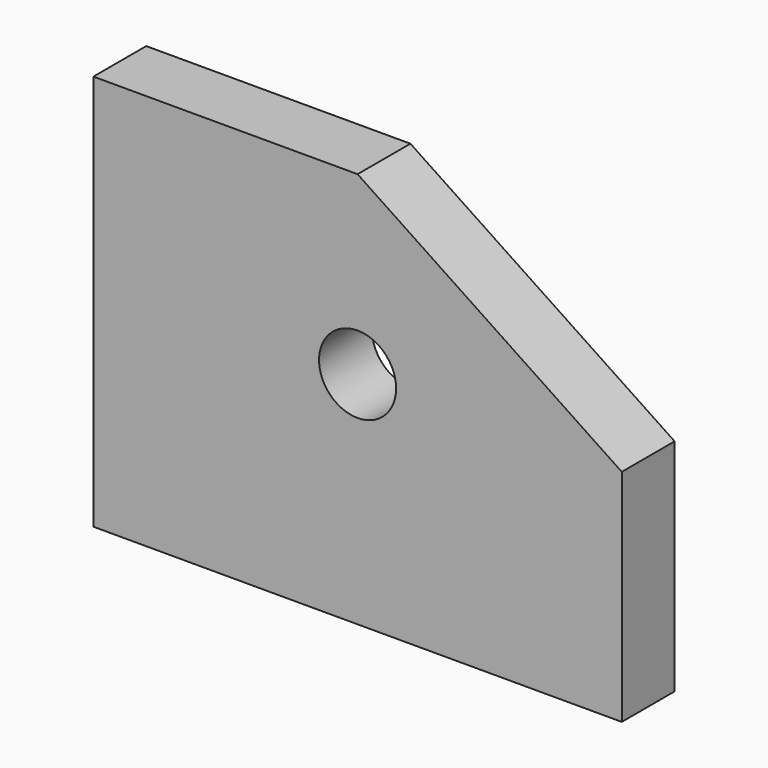
from build123d import *

# Parameters (mm, degrees)
PAD_DEPTH    = 19.05
SKETCH001_R  = 11.1125
POCKET_DEPTH = 19.051


with BuildPart() as part:
    # Sketch → Pad (new body)
    with BuildSketch(Plane.XZ):
        Polygon((-76.2, -63.5), (-76.2, 50.8), (0, 50.8), (76.2, 0), (76.2, -63.5), align=None)
    extrude(amount=PAD_DEPTH)

    # Sketch001 (on Face6 of Pad) → Pocket (cut, through all)
    with BuildSketch(Plane(origin=(0, 0, 0), x_dir=(1, 0, 0), z_dir=(0, 1, 0))):
        Circle(SKETCH001_R)
    extrude(amount=-POCKET_DEPTH, mode=Mode.SUBTRACT)


solid = part.part
